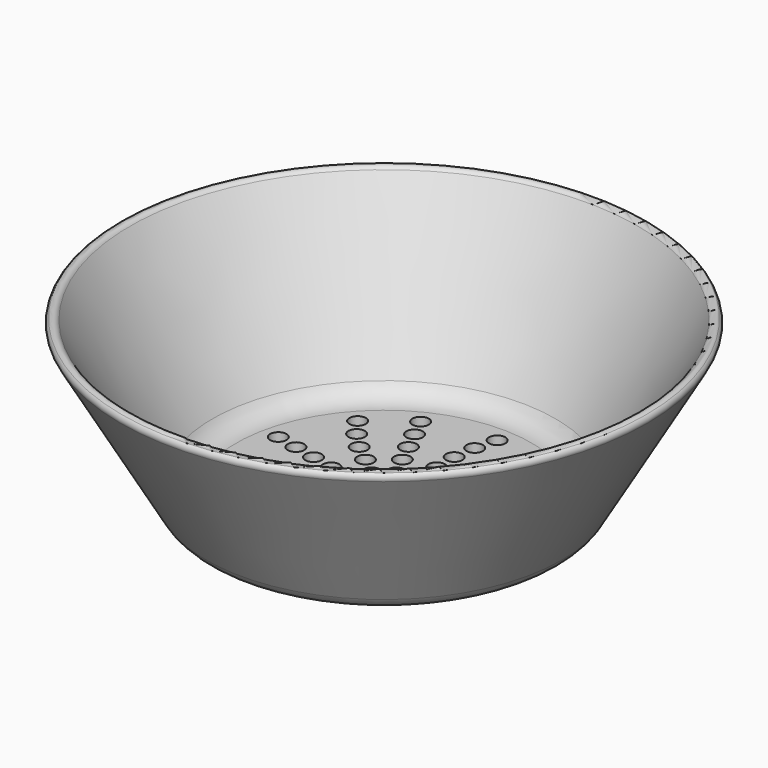
from build123d import *

# Parameters (mm, degrees)
F2_R     = 1.5
F3_DEPTH = 25


with BuildPart() as f1:
    # F0 (on Front) → F1 (revolve)
    with BuildSketch(Plane.XZ):
        with BuildLine():
            Line((26.958548, 0), (0, 0))
            Line((0, 0), (0, -2))
            Line((0, -2), (28.113249, -2))
            ThreePointArc((28.113249, -2), (30.613249, -1.330127), (32.443376, 0.5))
            Line((32.443376, 0.5), (48.064948, 27.557357))
            ThreePointArc((48.064948, 27.557357), (48.180461, 28.248623), (47.81385, 28.84594))
            ThreePointArc((47.81385, 28.84594), (47.007656, 29.038895), (46.332897, 28.557357))
            Line((46.332897, 28.557357), (31.288675, 2.5))
            ThreePointArc((31.288675, 2.5), (29.458548, 0.669873), (26.958548, 0))
        make_face()
    revolve(axis=Axis((0, 0, 22.936326), (0, 0, 1)))

    # F2 (on face) → F3 (cut)
    with BuildSketch(Plane.XY):
        with Locations((0.535612, 20.010184)):
            Circle(F2_R)
        with Locations((0, 16.010184)):
            Circle(F2_R)
        with Locations((0, 12.010184)):
            Circle(F2_R)
        with Locations((0, 8.010184)):
            Circle(F2_R)
        with Locations((-0.021516, 4.010184)):
            Circle(F2_R)
        with Locations((1.55299, 23.878638)):
            Circle(F2_R)
        with Locations((-3.148703, 2.483486)):
            Circle(F2_R)
        with Locations((-9.38994, 7.488227)):
            Circle(F2_R)
        with Locations((-6.262614, 4.994268)):
            Circle(F2_R)
        with Locations((-12.517266, 9.982186)):
            Circle(F2_R)
        with Locations((-15.310643, 12.894904)):
            Circle(F2_R)
        with Locations((-17.700798, 16.102264)):
            Circle(F2_R)
        with Locations((-3.904852, -0.913327)):
            Circle(F2_R)
        with Locations((-11.709063, -2.672517)):
            Circle(F2_R)
        with Locations((-7.809351, -1.782434)):
            Circle(F2_R)
        with Locations((-15.608775, -3.562601)):
            Circle(F2_R)
        with Locations((-19.627671, -3.930501)):
            Circle(F2_R)
        with BuildLine():
            ThreePointArc((-22.768372, -5.030415), (-22.295913, -4.493804), (-22.125524, -3.799444))
            ThreePointArc((-22.125524, -3.799444), (-24.955134, -3.105084), (-22.768372, -5.030415))
        make_face()
        with BuildLine():
            ThreePointArc((1.5, 0), (-0.500189, 1.414147), (-1.166415, -0.943121))
            ThreePointArc((-1.166415, -0.943121), (0.500189, -1.414147), (1.5, 0))
        make_face()
        with BuildLine():
            ThreePointArc((-5.054463, -4.086857), (-7.163998, -3.863564), (-7.387292, -5.973099))
            Line((-7.387292, -5.973099), (-5.054463, -4.086857))
        make_face()
        with BuildLine():
            Line((-5.054463, -4.086857), (-7.387292, -5.973099))
            ThreePointArc((-7.387292, -5.973099), (-5.720688, -6.444125), (-4.720878, -5.029978))
            ThreePointArc((-4.720878, -5.029978), (-4.806731, -4.529789), (-5.054463, -4.086857))
        make_face()
        with BuildLine():
            ThreePointArc((-8.164902, -6.601847), (-10.274437, -6.378553), (-10.497731, -8.488089))
            Line((-10.497731, -8.488089), (-8.164902, -6.601847))
        make_face()
        with BuildLine():
            Line((-8.164902, -6.601847), (-10.497731, -8.488089))
            ThreePointArc((-10.497731, -8.488089), (-8.831127, -8.959114), (-7.831316, -7.544968))
            ThreePointArc((-7.831316, -7.544968), (-7.91717, -7.044779), (-8.164902, -6.601847))
        make_face()
        with BuildLine():
            ThreePointArc((-11.275341, -9.116836), (-13.384876, -8.893542), (-13.60817, -11.003078))
            Line((-13.60817, -11.003078), (-11.275341, -9.116836))
        make_face()
        with BuildLine():
            Line((-11.275341, -9.116836), (-13.60817, -11.003078))
            ThreePointArc((-13.60817, -11.003078), (-11.941566, -11.474103), (-10.941755, -10.059957))
            ThreePointArc((-10.941755, -10.059957), (-11.027608, -9.559768), (-11.275341, -9.116836))
        make_face()
        with BuildLine():
            ThreePointArc((-14.385779, -11.631825), (-16.495315, -11.408531), (-16.718608, -13.518067))
            Line((-16.718608, -13.518067), (-14.385779, -11.631825))
        make_face()
        with BuildLine():
            Line((-14.385779, -11.631825), (-16.718608, -13.518067))
            ThreePointArc((-16.718608, -13.518067), (-15.052005, -13.989093), (-14.052194, -12.574946))
            ThreePointArc((-14.052194, -12.574946), (-14.138047, -12.074757), (-14.385779, -11.631825))
        make_face()
        with BuildLine():
            ThreePointArc((-10.259748, -20.840093), (-11.065388, -19.510482), (-12.616901, -19.609121))
            ThreePointArc((-12.616901, -19.609121), (-12.454108, -22.169703), (-10.259748, -20.840093))
        make_face()
        with BuildLine():
            ThreePointArc((-17.162633, -15.089935), (-17.248486, -14.589746), (-17.496218, -14.146814))
            Line((-17.496218, -14.146814), (-19.829047, -16.033056))
            ThreePointArc((-19.829047, -16.033056), (-18.162444, -16.504082), (-17.162633, -15.089935))
        make_face()
        with BuildLine():
            Line((-19.829047, -16.033056), (-17.496218, -14.146814))
            ThreePointArc((-17.496218, -14.146814), (-19.605754, -13.923521), (-19.829047, -16.033056))
        make_face()
        with Locations((-1.720568, -3.622386)):
            Circle(F2_R)
        with Locations((-5.211023, -10.820801)):
            Circle(F2_R)
        with Locations((-3.475488, -7.216926)):
            Circle(F2_R)
        with Locations((-6.946558, -14.424677)):
            Circle(F2_R)
        with Locations((-9.164663, -17.796159)):
            Circle(F2_R)
        with Locations((1.759339, -3.603715)):
            Circle(F2_R)
        with Locations((5.211023, -10.820801)):
            Circle(F2_R)
        with Locations((3.475488, -7.216926)):
            Circle(F2_R)
        with Locations((6.946558, -14.424677)):
            Circle(F2_R)
        with Locations((8.199523, -18.260946)):
            Circle(F2_R)
        with Locations((8.961357, -22.187727)):
            Circle(F2_R)
        with Locations((3.914428, -0.871373)):
            Circle(F2_R)
        with Locations((11.709063, -2.672517)):
            Circle(F2_R)
        with Locations((7.809351, -1.782434)):
            Circle(F2_R)
        with Locations((15.608775, -3.562601)):
            Circle(F2_R)
        with Locations((19.389301, -4.974868)):
            Circle(F2_R)
        with Locations((22.934378, -6.82755)):
            Circle(F2_R)
        with Locations((3.121873, 2.517131)):
            Circle(F2_R)
        with Locations((9.38994, 7.488227)):
            Circle(F2_R)
        with Locations((6.262614, 4.994268)):
            Circle(F2_R)
        with Locations((12.517266, 9.982186)):
            Circle(F2_R)
        with Locations((15.97854, 12.057387)):
            Circle(F2_R)
        with Locations((19.637345, 13.673911)):
            Circle(F2_R)
        with Locations((0.053942, -7.999818)):
            Circle(F2_R)
        with Locations((0.080913, -11.999727)):
            Circle(F2_R)
        with Locations((0.107884, -15.999636)):
            Circle(F2_R)
        with Locations((0.134854, -19.999545)):
            Circle(F2_R)
        with Locations((0.161825, -23.999454)):
            Circle(F2_R)
        with Locations((6.288142, -4.945632)):
            Circle(F2_R)
        with Locations((9.432213, -7.418447)):
            Circle(F2_R)
        with Locations((12.576284, -9.891263)):
            Circle(F2_R)
        with Locations((15.720355, -12.364079)):
            Circle(F2_R)
        with Locations((18.864425, -14.836895)):
            Circle(F2_R)
        with Locations((7.787243, 1.832716)):
            Circle(F2_R)
        with Locations((11.680864, 2.749074)):
            Circle(F2_R)
        with Locations((15.574486, 3.665433)):
            Circle(F2_R)
        with Locations((19.468107, 4.581791)):
            Circle(F2_R)
        with Locations((23.361728, 5.498149)):
            Circle(F2_R)
        with Locations((3.422391, 7.230992)):
            Circle(F2_R)
        with Locations((5.133587, 10.846487)):
            Circle(F2_R)
        with Locations((6.844782, 14.461983)):
            Circle(F2_R)
        with Locations((8.555978, 18.077479)):
            Circle(F2_R)
        with Locations((10.267173, 21.692975)):
            Circle(F2_R)
        with Locations((-3.519591, 7.184183)):
            Circle(F2_R)
        with Locations((-5.279386, 10.776274)):
            Circle(F2_R)
        with Locations((-7.039182, 14.368365)):
            Circle(F2_R)
        with Locations((-8.798977, 17.960457)):
            Circle(F2_R)
        with Locations((-10.558773, 21.552548)):
            Circle(F2_R)
        with Locations((-7.811249, 1.727538)):
            Circle(F2_R)
        with Locations((-11.716874, 2.591307)):
            Circle(F2_R)
        with Locations((-15.622498, 3.455075)):
            Circle(F2_R)
        with Locations((-19.528123, 4.318844)):
            Circle(F2_R)
        with Locations((-23.433748, 5.182613)):
            Circle(F2_R)
    extrude(amount=-F3_DEPTH, mode=Mode.SUBTRACT)


solid = f1.part
